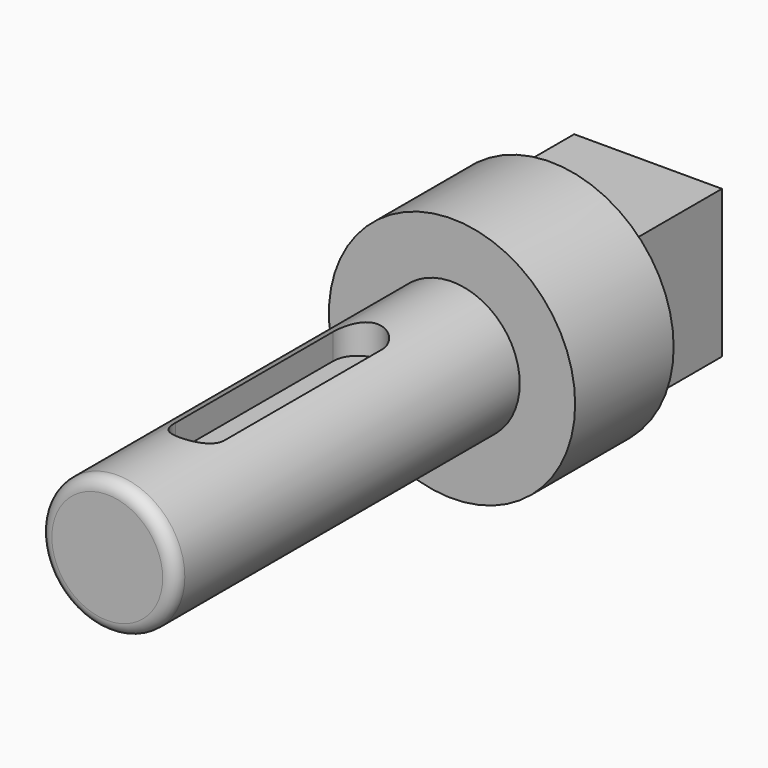
from build123d import *

# Parameters (mm, degrees)
F0_R      = 5.5
F1_DEPTH  = 35
F2_R      = 10
F3_DEPTH  = 10
F4_W      = 12
F4_H      = 12
F5_DEPTH  = 9.9
F7_D      = 4.2
F7_DEPTH  = 14.4
F7_TIP    = 1.2618073
F10_DEPTH = 25
F11_R     = 1


with BuildPart() as f1:
    # F0 (on Front) → F1 (new body)
    with BuildSketch(Plane.XZ):
        Circle(F0_R)
    extrude(amount=F1_DEPTH)

    # F2 (on Front) → F3 (join)
    with BuildSketch(Plane.XZ):
        Circle(F2_R)
    extrude(amount=-F3_DEPTH)

    # F4 (on face) → F5 (join)
    with BuildSketch(Plane(origin=(0, 10, 0), x_dir=(-1, 0, 0), z_dir=(0, 1, 0))):
        Rectangle(F4_W, F4_H)
    extrude(amount=F5_DEPTH)

    # F7
    with Locations(Plane(origin=(0, 19.9, 0), x_dir=(-1, 0, 0), z_dir=(0, 1, 0))):
        with Locations((0, 0)):
            Hole(F7_D / 2, depth=F7_DEPTH)
            with Locations((0, 0, -(F7_DEPTH + F7_TIP / 2))):  # 118° drill point
                Cone(0, F7_D / 2, F7_TIP, mode=Mode.SUBTRACT)

    # F9 (on offset) → F10 (cut)
    with BuildSketch(Plane.XY.offset(3)):
        with BuildLine():
            ThreePointArc((1.9320917986, -9.4997572851), (-0.0679082014, -7.4997572851), (-2.0679082014, -9.4997572851))
            Line((-2.0679082014, -9.4997572851), (-2.0679082014, -25.4997572851))
            ThreePointArc((-2.0679082014, -25.4997572851), (-0.0679082014, -27.4997572851), (1.9320917986, -25.4997572851))
            Line((1.9320917986, -25.4997572851), (1.9320917986, -9.4997572851))
        make_face()
    extrude(amount=F10_DEPTH, mode=Mode.SUBTRACT)

    # F11
    f11_edges = [f1.edges().sort_by_distance(p)[0] for p in [
        (-5.5, -35, 0),
    ]]
    fillet(f11_edges, radius=F11_R)


solid = f1.part
